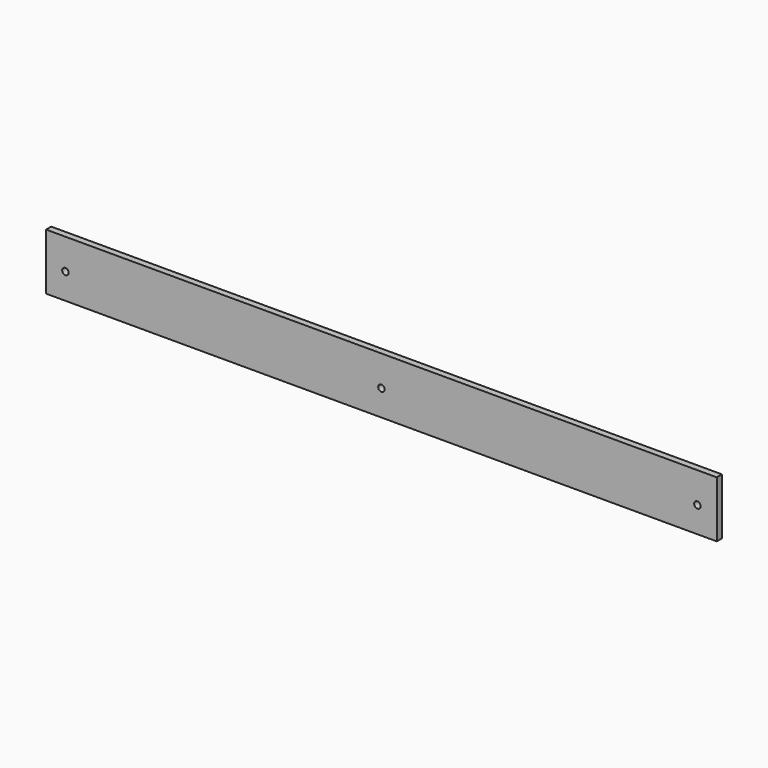
from build123d import *

# Parameters (mm, degrees)
F0_W     = 660.4
F0_H     = 55.5625
F0_R     = 3.175
F1_DEPTH = 6.35


with BuildPart() as f1:
    # F0 (on Front) → F1 (new body)
    with BuildSketch(Plane.XZ):
        Rectangle(F0_W, F0_H)
        with Locations((-311.15, -2.38125)):
            Circle(F0_R, mode=Mode.SUBTRACT)
        with Locations((0, -2.38125)):
            Circle(F0_R, mode=Mode.SUBTRACT)
        with Locations((311.15, -2.38125)):
            Circle(F0_R, mode=Mode.SUBTRACT)
    extrude(amount=F1_DEPTH)


solid = f1.part
